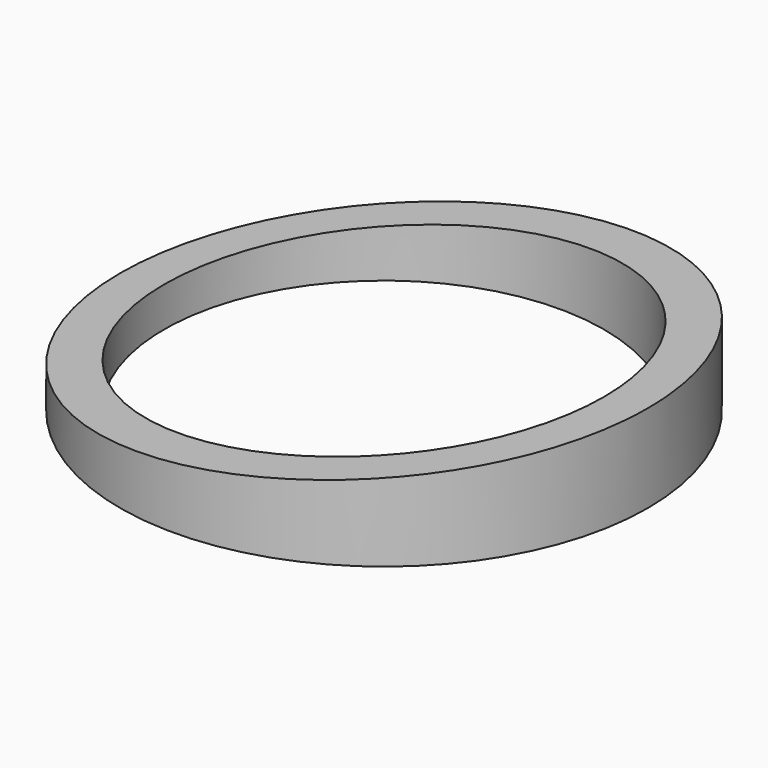
from build123d import *

# Parameters (mm, degrees)
F0_R          = 7.5
F0_R_2        = 6.25
F1_DEPTH      = 25
F3_DEPTH      = 25
F3_DEPTH_BACK = 25


with BuildPart() as f1:
    # F0 (on Top) → F1 (new body)
    with BuildSketch(Plane.XY):
        Circle(F0_R)
        Circle(F0_R_2, mode=Mode.SUBTRACT)
    extrude(amount=F1_DEPTH)

    # F2 (on Front) → F3 (cut, two sides)
    with BuildSketch(Plane.XZ) as f3_sk:
        Polygon((-7.5, 25), (-7.5, 1), (7.5, 2.5), (7.5, 25), align=None)
    extrude(amount=-F3_DEPTH, mode=Mode.SUBTRACT)
    extrude(f3_sk.sketch, amount=F3_DEPTH_BACK, mode=Mode.SUBTRACT)


solid = f1.part
